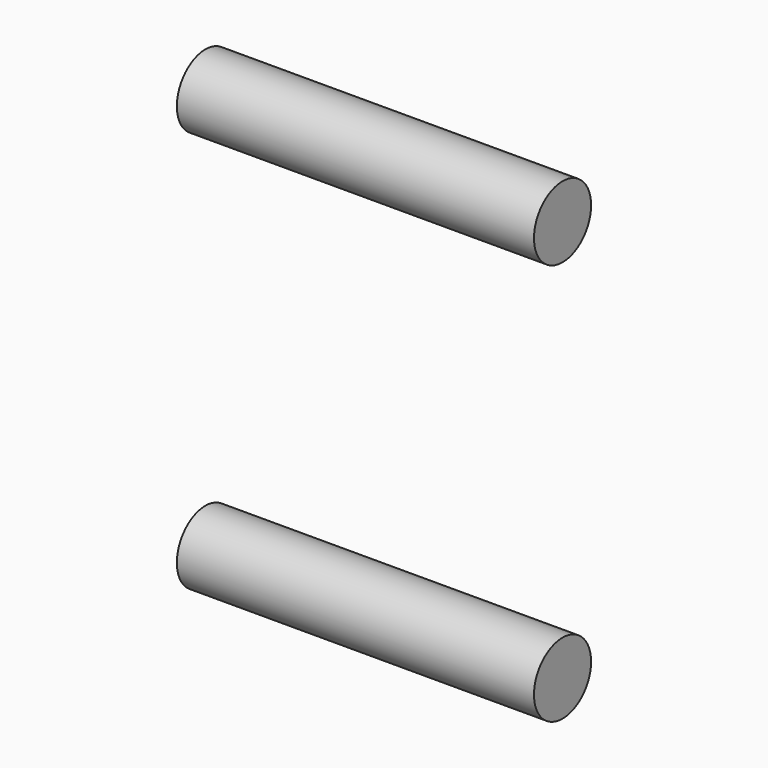
from build123d import *

# Parameters (mm, degrees)
F0_R          = 4
F1_DEPTH      = 20
F1_DEPTH_BACK = 20


with BuildPart() as f1:
    # F0 (on Right) → F1 (new body, two sides)
    with BuildSketch(Plane.YZ) as f1_sk:
        with Locations((0, 22.5)):
            Circle(F0_R)
        with Locations((0, -22.5)):
            Circle(F0_R)
    extrude(amount=F1_DEPTH)
    extrude(f1_sk.sketch, amount=-F1_DEPTH_BACK)


solid = f1.part
